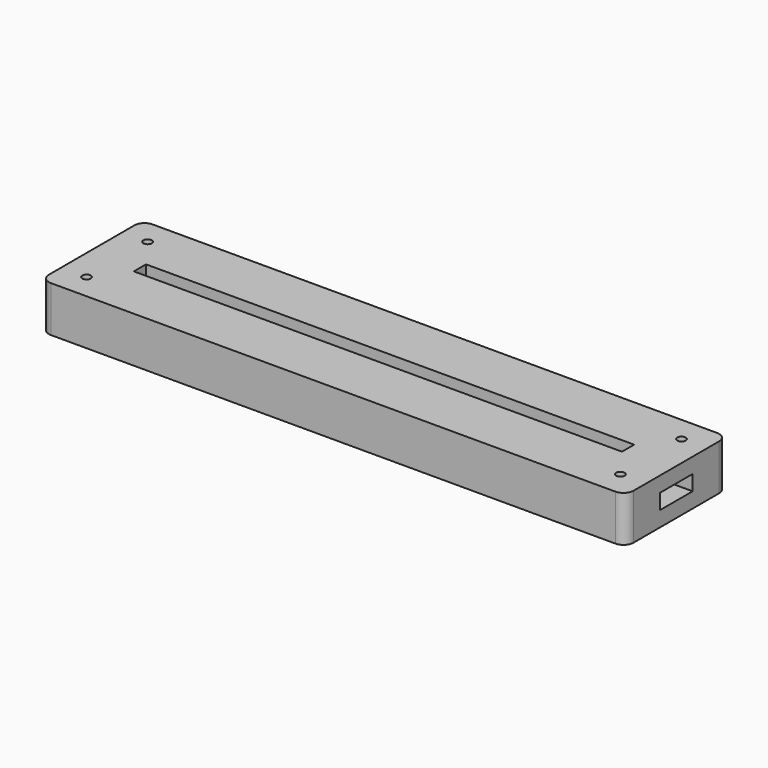
from build123d import *

# Parameters (mm, degrees)
SKETCH_W              = 115
SKETCH_H              = 25
PAD_DEPTH             = 3
PAD001_DEPTH          = 3
SKETCH002_W           = 115
SKETCH002_H           = 25
SKETCH002_W_2         = 96
SKETCH002_H_2         = 3
PAD002_DEPTH          = 3
SKETCH003_R           = 0.825
POCKET_DEPTH          = 245.060315
POLARPATTERN_COUNT    = 2
POLARPATTERN001_COUNT = 2
POLARPATTERN002_COUNT = 2
FILLET_R              = 2
SKETCH004_R           = 12.75
POCKET001_DEPTH       = 3
POCKET002_DEPTH       = 3
FILLET001_R           = 0.4
FILLET002_R           = 2


with BuildPart() as part:
    # Sketch → Pad (new body)
    with BuildSketch(Plane.XY):
        Rectangle(SKETCH_W, SKETCH_H)
    extrude(amount=PAD_DEPTH)

    # Sketch001 (on Face6 of Pad) → Pad001 (join)
    with BuildSketch(Plane.XY.offset(3)):
        Polygon((-57.5, 12.5), (57.5, 12.5), (57.5, 4), (50, 4), (50, 5), (-50, 5), (-50, 4), (-57.5, 4), align=None)
        Polygon((-57.5, -12.5), (57.5, -12.5), (57.5, -4), (50, -4), (50, -5), (-50, -5), (-50, -4), (-57.5, -4), align=None)
    extrude(amount=PAD001_DEPTH)

    # Sketch002 (on Face12 of Pad001) → Pad002 (join)
    with BuildSketch(Plane.XY.offset(6)):
        Rectangle(SKETCH002_W, SKETCH002_H)
        Rectangle(SKETCH002_W_2, SKETCH002_H_2, mode=Mode.SUBTRACT)
    extrude(amount=PAD002_DEPTH)

    # Sketch003 (on Face26 of Pad002) → Pocket (cut, through all)
    with BuildSketch(Plane.XY.offset(9)):
        with Locations((-52.5, 7.5)):
            Circle(SKETCH003_R)
    pocket = extrude(amount=-POCKET_DEPTH, mode=Mode.SUBTRACT)

    # PolarPattern: Pocket ×2 about axis
    polarpattern_axis = Axis((0, 0, 0), (0, 1, 0))
    for i in range(1, POLARPATTERN_COUNT):
        add(pocket.rotate(polarpattern_axis, i * 360 / POLARPATTERN_COUNT), mode=Mode.SUBTRACT)

    # PolarPattern001: Pocket ×2 about axis
    polarpattern001_axis = Axis((0, 0, 0), (1, 0, 0))
    for i in range(1, POLARPATTERN001_COUNT):
        add(pocket.rotate(polarpattern001_axis, i * 360 / POLARPATTERN001_COUNT), mode=Mode.SUBTRACT)

    # PolarPattern002: Pocket ×2 about axis
    polarpattern002_axis = Axis((0, 0, 9), (0, 0, 1))
    for i in range(1, POLARPATTERN002_COUNT):
        add(pocket.rotate(polarpattern002_axis, i * 360 / POLARPATTERN002_COUNT), mode=Mode.SUBTRACT)

    # Fillet
    fillet_edges = [part.edges().sort_by_distance(p)[0] for p in [
        (57.5, 12.5, 7.5),
        (57.5, 12.5, 4.5),
        (57.5, 12.5, 1.5),
        (57.5, -12.5, 7.5),
        (-57.5, 12.5, 7.5),
        (-57.5, -12.5, 7.5),
    ]]
    fillet(fillet_edges, radius=FILLET_R)

    # Sketch004 (on Face2 of Fillet) → Pocket001 (cut)
    with BuildSketch(Plane(origin=(0, 0, 0), x_dir=(1, 0, 0), z_dir=(0, 0, -1))):
        with Locations((0, -4.31247)):
            Circle(SKETCH004_R)
    extrude(amount=-POCKET001_DEPTH, mode=Mode.SUBTRACT)

    # Sketch005 (on Face2 of Pocket001) → Pocket002 (cut)
    with BuildSketch(Plane(origin=(0, 0, 0), x_dir=(1, 0, 0), z_dir=(0, 0, -1))):
        Polygon((0.086598, 10.584693), (-50.025204, 10.584693), (-50.025204, 6.371434), (-55.624748, 3.161258), (-55.624748, -3.408425), (-50.493088, -3.376352), (-45.134857, 4.115264), (-43.691578, 5.783052), (0.086598, 5.783052), align=None)
    extrude(amount=-POCKET002_DEPTH, mode=Mode.SUBTRACT)

    # Fillet001
    fillet001_edges = [part.edges().sort_by_distance(p)[0] for p in [
        (-7.787357, -5.783052, 1.5),
    ]]
    fillet(fillet001_edges, radius=FILLET001_R)

    # Fillet002
    fillet002_edges = [part.edges().sort_by_distance(p)[0] for p in [
        (0.086598, -8.437236, 1.5),
    ]]
    fillet(fillet002_edges, radius=FILLET002_R)


solid = part.part
